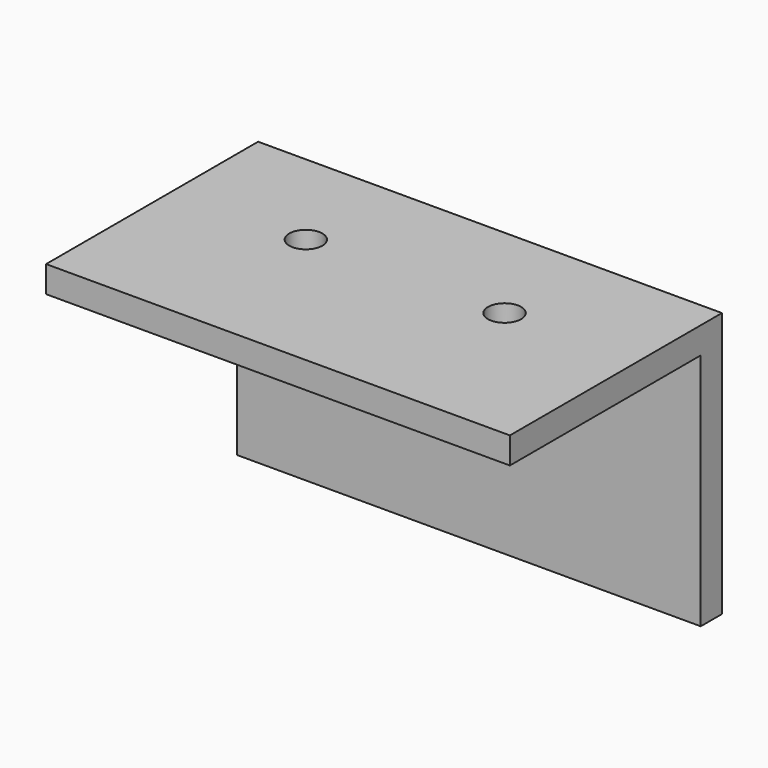
from build123d import *

# Parameters (mm, degrees)
F0_W     = 44.45
F0_H     = 25.4
F1_DEPTH = 25.4
F2_T     = -2.54
F4_D     = 3.175
F6_D     = 3.175


with BuildPart() as f1:
    # F0 (on Top) → F1 (new body)
    with BuildSketch(Plane.XY):
        with Locations((-7.5998026878, -20.9200205722)):
            Rectangle(F0_W, F0_H)
    extrude(amount=F1_DEPTH)

    # F2
    f2_openings = [f1.faces().sort_by_distance(p)[0] for p in [
        (14.625197, -20.920021, 12.7),
        (-29.824803, -20.920021, 12.7),
        (-7.599803, -33.620021, 12.7),
        (-7.599803, -20.920021, 0),
    ]]
    offset(amount=F2_T, openings=f2_openings)

    # F4 (through all)
    with Locations(Plane(origin=(0, 0, 0), x_dir=(1, 0, 0), z_dir=(0, 1, 0))):
        with Locations((-12.8914693544, -16.9946048409), (-21.3581360211, -16.9946048409)):
            Hole(F4_D / 2)

    # F6 (through all)
    with Locations(Plane.XY.offset(25.4)):
        with Locations((-17.1248026878, -18.3800205722), (1.9251973122, -18.3800205722)):
            Hole(F6_D / 2)


solid = f1.part
